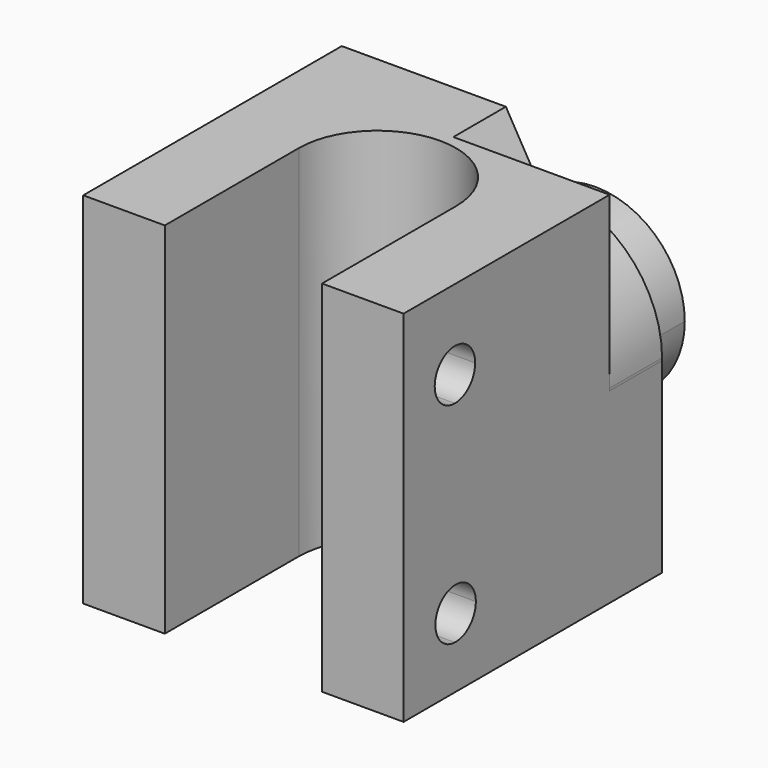
from build123d import *

# Parameters (mm, degrees)
F1_DEPTH = 27.813
F3_DEPTH = 6.3119
F5_DEPTH = 4.699
F7_DEPTH = 5.08


with BuildPart() as f1:
    # F0 (on Top) → F1 (new body)
    with BuildSketch(Plane.XY):
        with BuildLine():
            Line((-18.8019596104, 10.1706712406), (-18.8019596104, -14.8356287594))
            Line((-18.8019596104, -14.8356287594), (-12.4900596104, -14.8356287594))
            Line((-12.4900596104, -14.8356287594), (-12.4900596104, -1.8752787594))
            ThreePointArc((-12.4900596104, -1.8752787594), (-6.4067596104, 4.2080212406), (-0.3234596104, -1.8752787594))
            Line((-0.3234596104, -1.8752787594), (-0.3234596104, -14.8356287594))
            Line((-0.3234596104, -14.8356287594), (5.9884403896, -14.8356287594))
            Line((5.9884403896, -14.8356287594), (5.9884403896, 10.1706712406))
            Line((5.9884403896, 10.1706712406), (-18.8019596104, 10.1706712406))
        make_face()
    extrude(amount=F1_DEPTH)

    # F2 (on face) → F3 (cut, through all)
    with BuildSketch(Plane.YZ.offset(5.9884403896)):
        with BuildLine():
            ThreePointArc((-7.9141287594, 21.6408), (-8.4869693167, 23.0237594426), (-9.8699287594, 23.5966))
            Line((-9.8699287594, 23.5966), (-9.8699287594, 21.6408))
            Line((-9.8699287594, 21.6408), (-9.8699287594, 19.685))
            ThreePointArc((-9.8699287594, 19.685), (-8.4869693167, 20.2578405574), (-7.9141287594, 21.6408))
        make_face()
        with BuildLine():
            Line((-9.8699287594, 21.6408), (-9.8699287594, 23.5966))
            ThreePointArc((-9.8699287594, 23.5966), (-11.252888202, 23.0237594426), (-11.8257287594, 21.6408))
            Line((-11.8257287594, 21.6408), (-9.8699287594, 21.6408))
        make_face()
        with BuildLine():
            Line((-9.8699287594, 19.685), (-9.8699287594, 21.6408))
            Line((-9.8699287594, 21.6408), (-11.8257287594, 21.6408))
            ThreePointArc((-11.8257287594, 21.6408), (-11.252888202, 20.2578405574), (-9.8699287594, 19.685))
        make_face()
        with BuildLine():
            ThreePointArc((-7.8475873364, 5.3523653187), (-8.4441574212, 6.7586539368), (-9.8699287594, 7.3070330344))
            Line((-9.8699287594, 7.3070330344), (-9.8699287594, 5.4864))
            Line((-9.8699287594, 5.4864), (-9.8699287594, 3.3976976029))
            ThreePointArc((-9.8699287594, 3.3976976029), (-8.4441574212, 3.9460767006), (-7.8475873364, 5.3523653187))
        make_face()
        with BuildLine():
            Line((-9.8699287594, 5.4864), (-9.8699287594, 7.3070330344))
            ThreePointArc((-9.8699287594, 7.3070330344), (-11.1622464384, 6.7590122471), (-11.7545891057, 5.4864))
            Line((-11.7545891057, 5.4864), (-9.8699287594, 5.4864))
        make_face()
        with BuildLine():
            ThreePointArc((-11.7545891057, 5.4864), (-11.2554518403, 4.0421507116), (-9.8699287594, 3.3976976029))
            Line((-9.8699287594, 3.3976976029), (-9.8699287594, 5.4864))
            Line((-9.8699287594, 5.4864), (-11.7545891057, 5.4864))
        make_face()
    extrude(amount=-F3_DEPTH, mode=Mode.SUBTRACT)

    # F4 (on face) → F5 (join)
    with BuildSketch(Plane(origin=(0, 10.1706712406, 0), x_dir=(-1, 0, 0), z_dir=(0, 1, 0))):
        with BuildLine():
            ThreePointArc((-3.9818403896, 14.5669), (-1.9582997195, 9.6816406701), (2.9269596104, 7.6581))
            Line((2.9269596104, 7.6581), (2.9269596104, 13.34135))
            ThreePointArc((2.9269596104, 13.34135), (2.0603648947, 13.7003052843), (1.7014096104, 14.5669))
            Line((1.7014096104, 14.5669), (-3.9818403896, 14.5669))
        make_face()
        with BuildLine():
            Line((2.9269596104, 13.34135), (2.9269596104, 7.6581))
            ThreePointArc((2.9269596104, 7.6581), (7.8122189403, 9.6816406701), (9.8357596104, 14.5669))
            ThreePointArc((9.8357596104, 14.5669), (2.9269596104, 21.4757), (-3.9818403896, 14.5669))
            Line((-3.9818403896, 14.5669), (1.7014096104, 14.5669))
            ThreePointArc((1.7014096104, 14.5669), (2.0603648947, 15.4334947157), (2.9269596104, 15.79245))
            ThreePointArc((2.9269596104, 15.79245), (3.7935543261, 15.4334947157), (4.1525096104, 14.5669))
            ThreePointArc((4.1525096104, 14.5669), (3.7935543261, 13.7003052843), (2.9269596104, 13.34135))
        make_face()
    extrude(amount=F5_DEPTH)

    # F6 (on face) → F7 (cut)
    with BuildSketch(Plane(origin=(0, 10.1706712406, 0), x_dir=(-1, 0, 0), z_dir=(0, 1, 0))):
        with BuildLine():
            Line((3.5874825428, 23.4577979645), (6.1019596104, 27.813))
            Line((6.1019596104, 27.813), (-5.9884403896, 27.813))
            Line((-5.9884403896, 27.813), (-5.9884403896, 14.4474878907))
            Line((-5.9884403896, 14.4474878907), (-5.9881597655, 14.637636653))
            ThreePointArc((-5.9881597655, 14.637636653), (-3.11318956, 21.1244113541), (3.5874825428, 23.4577979645))
        make_face()
    extrude(amount=-F7_DEPTH, mode=Mode.SUBTRACT)


solid = f1.part
